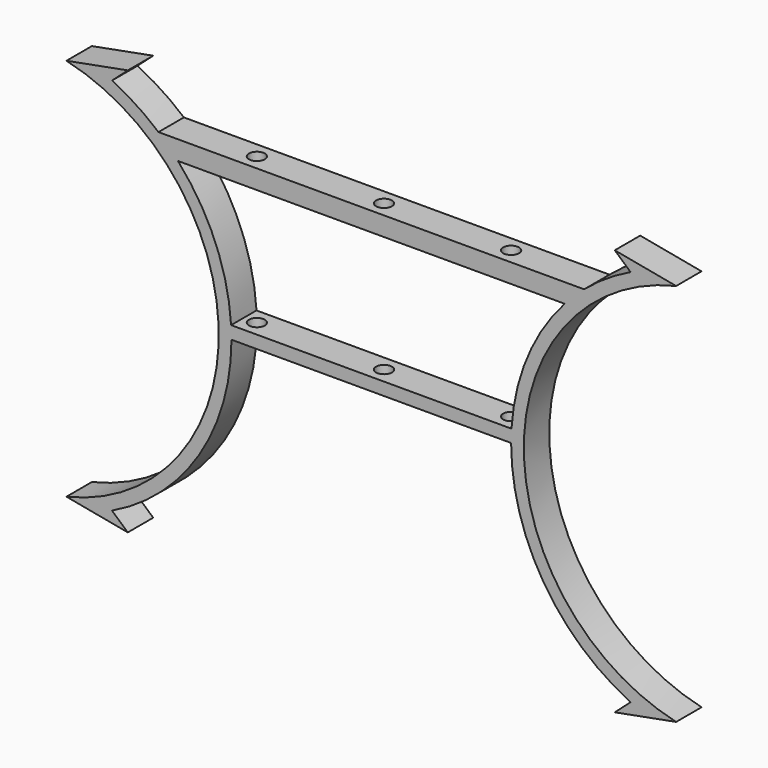
from build123d import *

# Parameters (mm, degrees)
F1_DEPTH = 5
F2_R     = 1.25
F3_DEPTH = 25


with BuildPart() as f1:
    # F0 (on Front) → F1 (new body)
    with BuildSketch(Plane.XZ):
        with BuildLine():
            ThreePointArc((-47.966688, 30.191597), (-24, 0), (-47.966688, -30.191597))
            Line((-47.966688, -30.191597), (-38.311757, -32))
            Line((-38.311757, -32), (-40.794962, -29.786186))
            ThreePointArc((-40.794962, -29.786186), (-27.091522, -17.610135), (-22, 0))
            Line((-22, 0), (0, 0))
            Line((0, 0), (22, 0))
            ThreePointArc((22, 0), (27.091522, -17.610135), (40.794962, -29.786186))
            Line((40.794962, -29.786186), (38.311757, -32))
            Line((38.311757, -32), (47.966688, -30.191597))
            ThreePointArc((47.966688, -30.191597), (24, 0), (47.966688, 30.191597))
            Line((47.966688, 30.191597), (38.311757, 32))
            Line((38.311757, 32), (40.794962, 29.786186))
            ThreePointArc((40.794962, 29.786186), (36.982009, 27.646916), (33.485323, 25.022363))
            Line((33.485323, 25.022363), (0, 25.022363))
            Line((0, 25.022363), (-33.485323, 25.022363))
            ThreePointArc((-33.485323, 25.022363), (-36.982009, 27.646916), (-40.794962, 29.786186))
            Line((-40.794962, 29.786186), (-38.311757, 32))
            Line((-38.311757, 32), (-47.966688, 30.191597))
        make_face()
        with BuildLine():
            Line((-30.423273, 22.022363), (0, 22.022363))
            Line((0, 22.022363), (30.423273, 22.022363))
            ThreePointArc((30.423273, 22.022363), (24.54925, 12.718168), (22.060662, 2))
            Line((22.060662, 2), (0, 2))
            Line((0, 2), (-22.060662, 2))
            ThreePointArc((-22.060662, 2), (-24.54925, 12.718168), (-30.423273, 22.022363))
        make_face(mode=Mode.SUBTRACT)
    extrude(amount=F1_DEPTH)

    # F2 (on face) → F3 (cut)
    with BuildSketch(Plane.XY.offset(25.022363)):
        with Locations((-20, -2.5)):
            Circle(F2_R)
        with Locations((0, -2.5)):
            Circle(F2_R)
        with Locations((20, -2.5)):
            Circle(F2_R)
    extrude(amount=-F3_DEPTH, mode=Mode.SUBTRACT)


solid = f1.part
